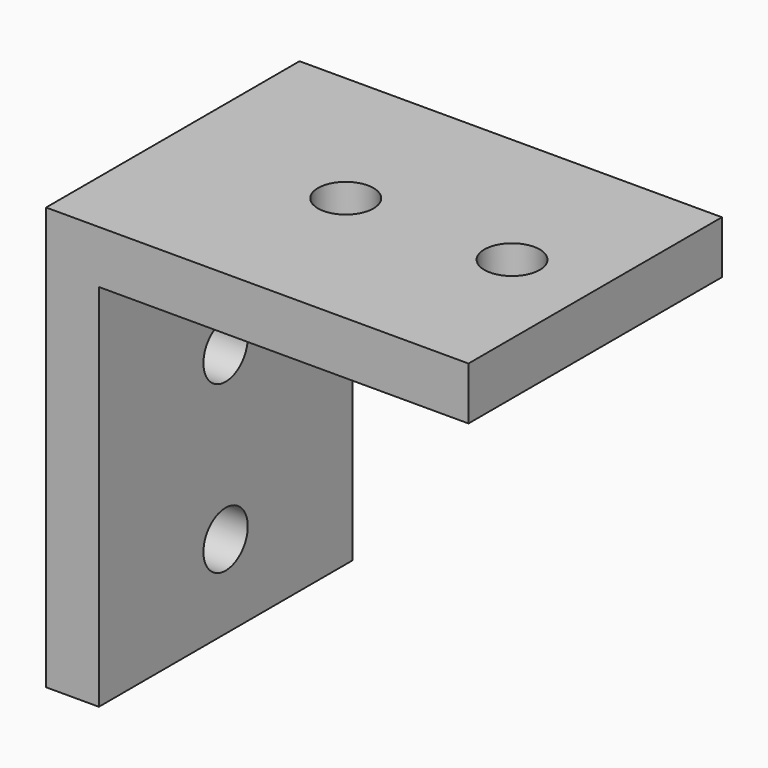
from build123d import *

# Parameters (mm, degrees)
F1_DEPTH = 57.15
F3_R     = 5
F4_DEPTH = 25
F2_R     = 5
F5_DEPTH = 25


with BuildPart() as f1:
    # F0 (on Front) → F1 (new body)
    with BuildSketch(Plane.XZ):
        Polygon((37.012778, 41.031351), (-39.187222, 41.031351), (-39.187222, -35.168649), (-29.662222, -35.168649), (-29.662222, 31.506351), (37.012778, 31.506351), align=None)
    extrude(amount=F1_DEPTH)

    # F3 (on face) → F4 (cut)
    with BuildSketch(Plane(origin=(-39.187222, 0, 0), x_dir=(0, -1, 0), z_dir=(-1, 0, 0))):
        with Locations((28.575, -20.168649)):
            Circle(F3_R)
        with Locations((28.575, 9.831351)):
            Circle(F3_R)
    extrude(amount=-F4_DEPTH, mode=Mode.SUBTRACT)

    # F2 (on face) → F5 (cut)
    with BuildSketch(Plane.XY.offset(41.031351)):
        with Locations((-7.987222, -28.575)):
            Circle(F2_R)
        with Locations((22.012778, -28.575)):
            Circle(F2_R)
    extrude(amount=-F5_DEPTH, mode=Mode.SUBTRACT)


solid = f1.part
